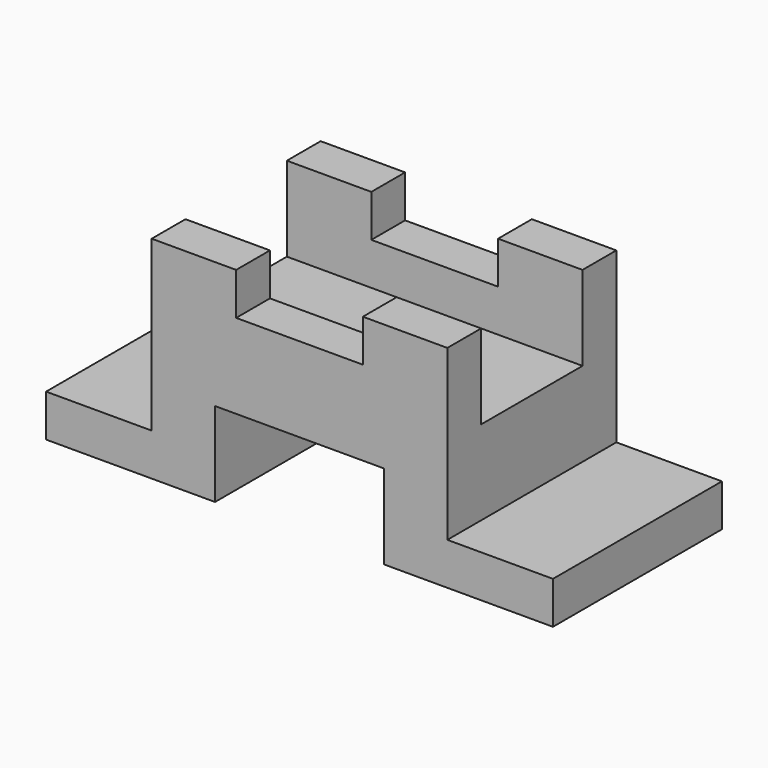
from build123d import *

# Parameters (mm, degrees)
F3_W      = 120
F3_H      = 50
F4_DEPTH  = 50
F5_W      = 25
F5_H      = 40
F6_DEPTH  = 50
F7_W      = 25
F7_H      = 40
F8_DEPTH  = 50
F9_W      = 40
F9_H      = 20
F10_DEPTH = 50
F11_W     = 30
F11_H     = 10
F12_DEPTH = 50
F13_W     = 30
F13_H     = 20
F14_DEPTH = 120


with BuildPart() as f4:
    # F3 (on Top) → F4 (new body)
    with BuildSketch(Plane.XY):
        Rectangle(F3_W, F3_H)
    extrude(amount=F4_DEPTH)

    # F5 (on face) → F6 (cut)
    with BuildSketch(Plane.XZ.offset(25)):
        with Locations((47.5, 30)):
            Rectangle(F5_W, F5_H)
    extrude(amount=-F6_DEPTH, mode=Mode.SUBTRACT)

    # F7 (on face) → F8 (cut)
    with BuildSketch(Plane.XZ.offset(25)):
        with Locations((-47.5, 30)):
            Rectangle(F7_W, F7_H)
    extrude(amount=-F8_DEPTH, mode=Mode.SUBTRACT)

    # F9 (on face) → F10 (cut)
    with BuildSketch(Plane.XZ.offset(25)):
        with Locations((0, 10)):
            Rectangle(F9_W, F9_H)
    extrude(amount=-F10_DEPTH, mode=Mode.SUBTRACT)

    # F11 (on face) → F12 (cut)
    with BuildSketch(Plane.XZ.offset(25)):
        with Locations((0, 45)):
            Rectangle(F11_W, F11_H)
    extrude(amount=-F12_DEPTH, mode=Mode.SUBTRACT)

    # F13 (on face) → F14 (cut)
    with BuildSketch(Plane(origin=(-35, 0, 0), x_dir=(0, -1, 0), z_dir=(-1, 0, 0))):
        with Locations((0, 40)):
            Rectangle(F13_W, F13_H)
    extrude(amount=-F14_DEPTH, mode=Mode.SUBTRACT)


solid = f4.part
